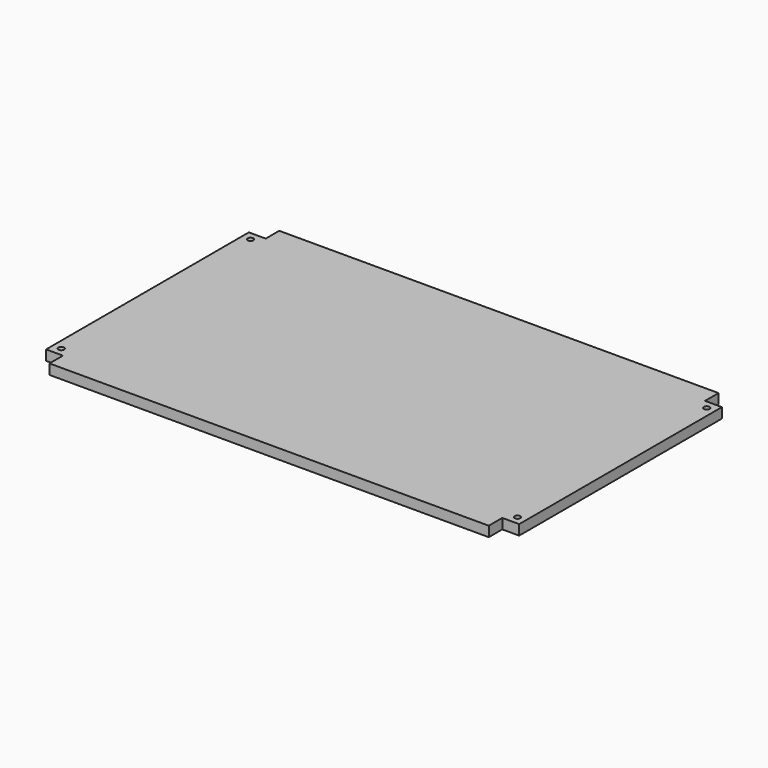
from build123d import *

# Parameters (mm, degrees)
PAD_DEPTH    = 6
SKETCH001_R  = 1.7
POCKET_DEPTH = 661.244466


with BuildPart() as part:
    # Sketch → Pad (new body)
    with BuildSketch(Plane.XY):
        Polygon((-140, -75), (-140, 75), (-130, 75), (-130, 85), (130, 85), (130, 75), (140, 75), (140, -75), (130, -75), (130, -85), (-130, -85), (-130, -75), align=None)
    extrude(amount=PAD_DEPTH)

    # Sketch001 (on Face14 of Pad) → Pocket (cut, through all)
    with BuildSketch(Plane.XY.offset(6)):
        with Locations((-135, 70)):
            Circle(SKETCH001_R)
        with Locations((-135, -70)):
            Circle(SKETCH001_R)
    pocket = extrude(amount=-POCKET_DEPTH, mode=Mode.SUBTRACT)

    # Mirrored: Pocket across Sketch001 V_Axis
    add(pocket.mirror(Plane(origin=(0, 0, 6), x_dir=(0, 0, 1), z_dir=(1, 0, 0))), mode=Mode.SUBTRACT)


solid = part.part
